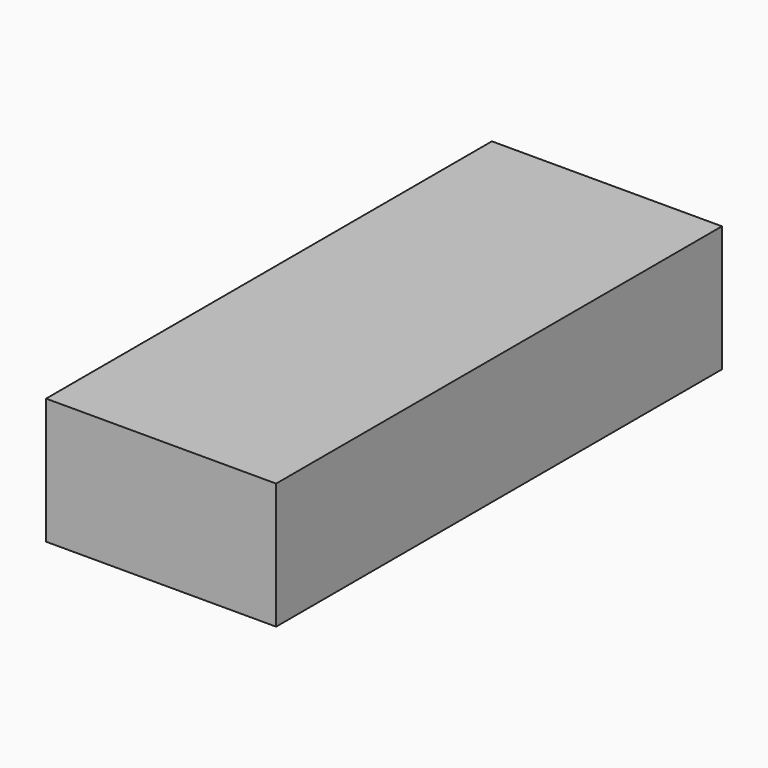
from build123d import *

# Parameters (mm, degrees)
SKETCH011_W         = 41.286587
SKETCH011_H         = 22.609322
PAD004_DEPTH        = 50
PAD003_DEPTH        = 50
SKETCH009_W         = 10.137305
SKETCH009_H         = 44.950935
POCKET005_DEPTH     = 5
POCKET006_DEPTH     = 0.386998
POCKET007_DEPTH     = 4.5
LINEARPATTERN_COUNT = 50
LINEARPATTERN_PITCH = 2.040816


with BuildPart() as obj1:
    # Sketch011 → Pad004 (new body, symmetric)
    with BuildSketch(Plane.XZ):
        with Locations((78.272493, 6.635345)):
            Rectangle(SKETCH011_W, SKETCH011_H)
    extrude(amount=PAD004_DEPTH, both=True)


with BuildPart() as obj2:
    # Sketch008 → Pad003 (new body)
    with BuildSketch(Plane(origin=(0, 25.5, 0), x_dir=(-1, 0, 0), z_dir=(0, 1, 0))):
        Polygon((-87.702065, 2.792236), (-89.376048, 2.792236), (-89.380697, 4.691212), (-87.706714, 4.691212), (-87.65287, 6.434328), (-70.225892, 6.434328), (-70.28012, 4.691224), (-68.606136, 4.691224), (-68.602594, 2.792246), (-70.276578, 2.792246), (-70.286952, 1.048329), (-87.71393, 1.048329), align=None)
    extrude(amount=-PAD003_DEPTH)

    # Sketch009 → Pocket005 (cut)
    with BuildSketch(Plane(origin=(0, 25.5, 1.048329), x_dir=(-1, 0, 0), z_dir=(0, 0, -1))):
        with Locations((-78.094455, -27.651439)):
            Rectangle(SKETCH009_W, SKETCH009_H)
    extrude(amount=-POCKET005_DEPTH, mode=Mode.SUBTRACT)

    # Sketch010 → Pocket006 (cut, through all)
    with BuildSketch(Plane(origin=(0, 25.5, 6.048329), x_dir=(-1, 0, 0), z_dir=(0, 0, -1))):
        with BuildLine():
            ThreePointArc((-76.093689, -10.5114), (-79.010852, -7.594237), (-81.928015, -10.5114))
            Line((-81.928015, -10.5114), (-81.928015, -49.588167))
            ThreePointArc((-81.928015, -49.588167), (-79.010852, -52.50533), (-76.093689, -49.588167))
            Line((-76.093689, -10.5114), (-76.093689, -49.588167))
        make_face()
    extrude(amount=-POCKET006_DEPTH, mode=Mode.SUBTRACT)

    # Sketch012 → Pocket007 (cut)
    with BuildSketch(Plane(origin=(0, 25.5, 1.048329), x_dir=(-1, 0, 0), z_dir=(0, 0, -1))):
        Polygon((-85.44191, -7.330385), (-85.44191, -8.152901), (-82.350922, -8.652901), (-82.350922, -6.830385), align=None)
    pocket007 = extrude(amount=-POCKET007_DEPTH, mode=Mode.SUBTRACT)

    # LinearPattern: Pocket007 ×50
    with Locations(*[(0, -i * LINEARPATTERN_PITCH, 0) for i in range(1, LINEARPATTERN_COUNT)]):
        add(pocket007, mode=Mode.SUBTRACT)


solid = Compound([obj1.part, obj2.part])
